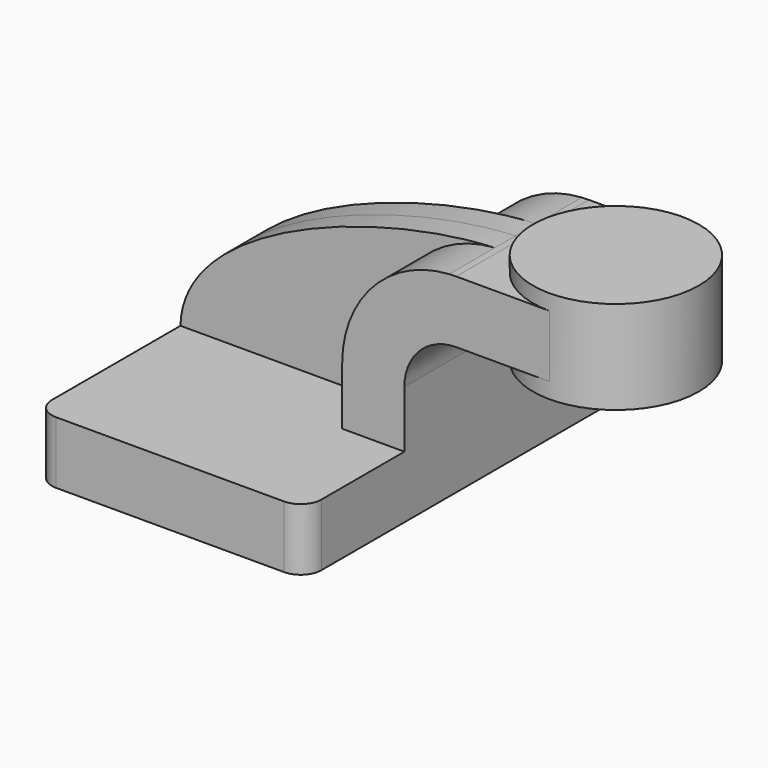
from build123d import *

# Parameters (mm, degrees)
F1_DEPTH = 63.5
F0_W     = 25.4
F0_H     = 19.05
F2_DEPTH = 25.4
F3_DEPTH = 7.9375
F5_R     = 6.35


with BuildPart() as f1:
    # F0 (on Front) → F1 (new body, symmetric)
    with BuildSketch(Plane.XZ):
        Polygon((-41.275, -9.525), (41.275, -9.525), (41.275, 9.525), (22.225, 9.525), (-41.275, 9.525), align=None)
    extrude(amount=F1_DEPTH, both=True)

    # F0 (on Front) → F2 (join, symmetric)
    with BuildSketch(Plane.XZ):
        with Locations((73.025, 52.4002)):
            Rectangle(F0_W, F0_H)
        with BuildLine():
            Line((22.225, 9.525), (41.275, 9.525))
            Line((41.275, 9.525), (41.275, 27.0002))
            ThreePointArc((41.275, 27.0002), (45.9246798487, 38.2255201513), (57.15, 42.8752))
            Line((57.15, 42.8752), (60.325, 42.8752))
            Line((60.325, 42.8752), (60.325, 61.9252))
            Line((60.325, 61.9252), (57.15, 61.9252))
            add(Edge.make_bspline(
                [(55.0116880199, 61.8596785801), (55.7347572058, 61.8894379571), (56.4477616537, 61.9113048463), (57.15, 61.9252)],
                knots=[109.2849034871, 109.2849034871, 109.2849034871, 109.2849034871, 111.5045361635, 111.5045361635, 111.5045361635, 111.5045361635], degree=3))
            ThreePointArc((55.0116880199, 61.8596785801), (31.7095187653, 50.927956676), (22.225, 27.0002))
            Line((22.225, 27.0002), (22.225, 9.525))
        make_face()
    extrude(amount=F2_DEPTH, both=True)

    # F0 (on Front) → F3 (join, symmetric)
    with BuildSketch(Plane.XZ):
        with BuildLine():
            add(Edge.make_bspline(
                [(-41.275, 9.525), (-40.5881324585, 39.7967237025), (19.4109568559, 60.3944583732), (55.0116880199, 61.8596785801)],
                knots=[0, 0, 0, 0, 109.2849034871, 109.2849034871, 109.2849034871, 109.2849034871], degree=3))
            Line((-41.275, 9.525), (22.225, 9.525))
            Line((22.225, 9.525), (22.225, 27.0002))
            ThreePointArc((22.225, 27.0002), (31.7095187653, 50.927956676), (55.0116880199, 61.8596785801))
        make_face()
    extrude(amount=F3_DEPTH, both=True)

    # F0 (on Front) → F4 (revolve)
    with BuildSketch(Plane.XZ):
        Polygon((85.725, 61.9252), (85.725, 42.8752), (85.725, 38.1), (111.125, 38.1), (111.125, 66.675), (85.725, 66.675), align=None)
    revolve(axis=Axis((85.725, 0, 52.3875), (0, 0, 1)))

    # F5
    f5_edges = [f1.edges().sort_by_distance(p)[0] for p in [
        (41.275, -63.5, 0),
        (-41.275, -63.5, 0),
        (41.275, 63.5, 0),
        (-41.275, 63.5, 0),
    ]]
    fillet(f5_edges, radius=F5_R)


solid = f1.part
